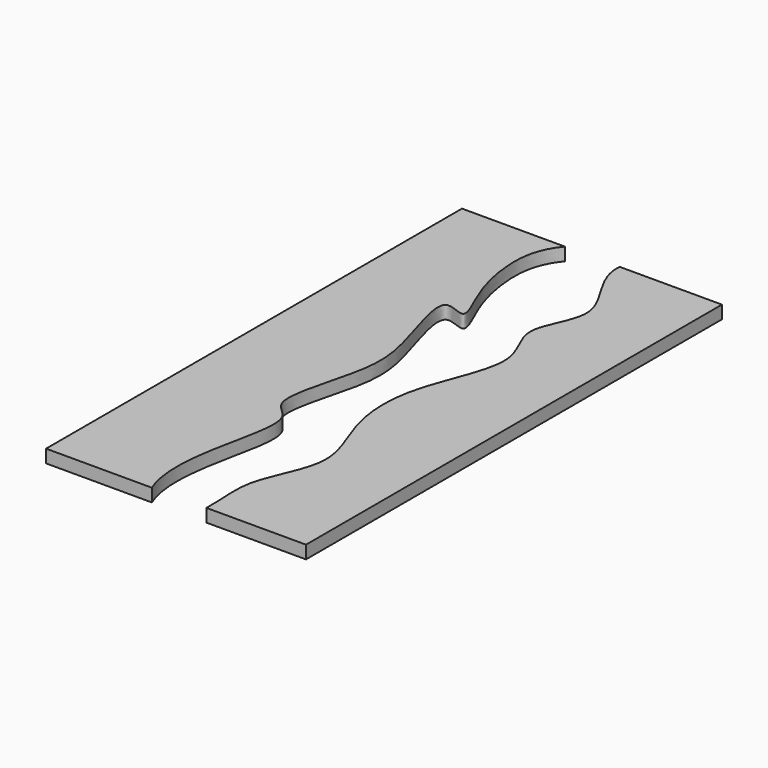
from build123d import *

# Parameters (mm, degrees)
F0_W     = 500
F0_H     = 1000
F1_DEPTH = 25
F3_DEPTH = 99


with BuildPart() as f1:
    # F0 (on Top) → F1 (new body)
    with BuildSketch(Plane.XY):
        with Locations((0.9603649378, -76.4063263884)):
            Rectangle(F0_W, F0_H)
    extrude(amount=F1_DEPTH)

    # F2 (on face) → F3 (cut)
    with BuildSketch(Plane.XY.offset(25)):
        with BuildLine():
            add(Edge.make_bspline(
                [(-51.173787564, 423.5936736116), (-80.5005236088, 388.1406122859), (-83.5145564382, 312.7919192178), (-61.5624434267, 225.9833945323), (-14.2929601622, 137.1863701204), (-99.8505453147, 192.2478375482), (-41.6000611705, 28.7090729978), (-25.9376231385, -70.9455595395), (-89.9978816849, -243.6253300671), (-18.1607772932, -269.1289056067), (-49.4480231275, -399.8554978426), (-76.7408306681, -570.453679), (41.008478918, -690.1251646397), (67.1934835526, -566.6794338544), (45.0949246538, -468.6995369717), (125.6387581741, -346.2431901881), (56.3808933749, -225.4050491052), (49.2182151148, -76.4925766249), (139.3888222687, 84.8269632912), (53.4448268771, 175.1145434381), (145.976295163, 283.6921734118), (27.4815016079, 391.283020415), (88.3157112942, 520.6733456892), (-20.68684172, 460.4493113816), (-51.173787564, 423.5936736116)],
                knots=[0, 0, 0, 0, 0.0461982273, 0.0901317264, 0.1241903759, 0.1507553377, 0.1981562591, 0.2478083658, 0.3020896759, 0.3323131277, 0.3794419456, 0.4385079972, 0.4836235398, 0.5226687137, 0.5677141191, 0.616910557, 0.6657512414, 0.7188596046, 0.7751827584, 0.8177154273, 0.8625091957, 0.9134869378, 0.9519741013, 1, 1, 1, 1], degree=3))
        make_face()
    extrude(amount=-F3_DEPTH, mode=Mode.SUBTRACT)


solid = f1.part
